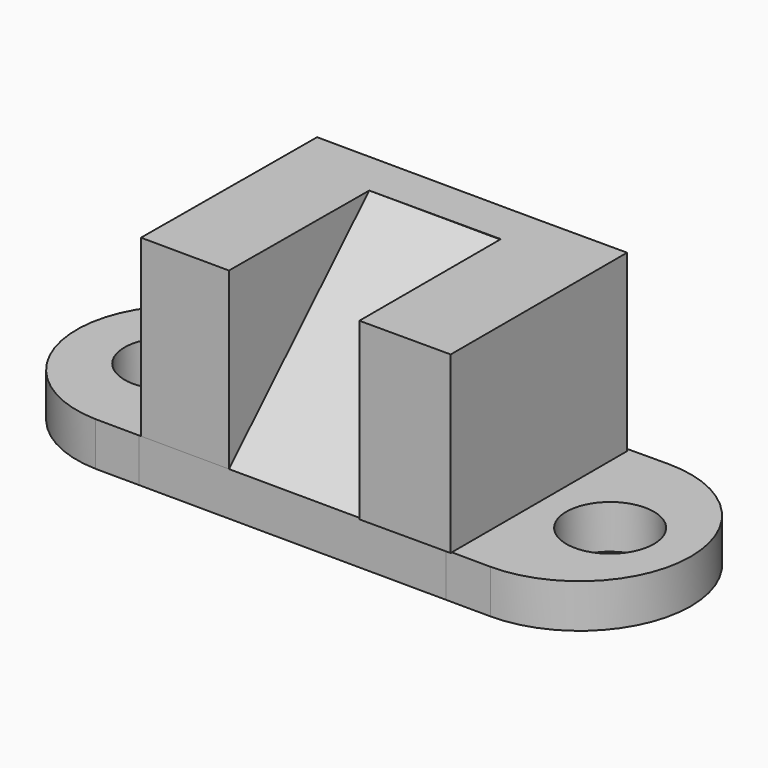
from build123d import *

# Parameters (mm, degrees)
F1_DEPTH  = 12.7
F2_W      = 25.6720799953
F2_H      = 50.7660422802
F3_DEPTH  = 63.5
F5_DEPTH  = 50.7660422802
F6_W      = 26.5199552193
F6_H      = 64.0474567351
F7_DEPTH  = 50.8
F10_R     = 12.7730811137
F11_DEPTH = 63.4670422802
F12_R     = 12.7195807683
F13_DEPTH = 12.701


with BuildPart() as f1:
    # F0 (on Top) → F1 (new body)
    with BuildSketch(Plane.XY):
        with BuildLine():
            ThreePointArc((-25.6409262814, 31.6378357737), (-58.9331206672, 1.2217878444), (-28.0842930079, -31.6697917879))
            Line((-28.0842930079, -31.6697917879), (-15.4401324445, -31.7423005202))
            Line((-15.4401324445, -31.7423005202), (-15.8297911107, 31.6980969637))
            Line((-15.8297911107, 31.6980969637), (-25.6409262814, 31.6378357737))
        make_face()
        with BuildLine():
            Line((87.1467143297, 32.3305912316), (73.7005600104, 32.2480033102))
            Line((73.7005600104, 32.2480033102), (74.0967499711, -32.2557553919))
            Line((74.0967499711, -32.2557553919), (87.1467143297, -32.3305912316))
            ThreePointArc((87.1467143297, -32.3305912316), (119.4773055613, 0), (87.1467143297, 32.3305912316))
        make_face()
        Polygon((-15.8297911107, 31.6980969637), (-15.4401324445, -31.7423005202), (10.3389963129, -31.890132552), (74.0967499711, -32.2557553919), (73.7005600104, 32.2480033102), align=None)
    extrude(amount=F1_DEPTH)

    # F2 (on face) → F3 (join)
    with BuildSketch(Plane(origin=(-0.182529964, -31.8297961992, 0), x_dir=(0.9999835578, -0.0057344685, 0), z_dir=(-0.0057344685, -0.9999835578, 0))):
        with Locations((-1.8538236618, 38.0830211401)):
            Rectangle(F2_W, F2_H)
    extrude(amount=-F3_DEPTH)

    # F4 (on face) → F5 (join, through all)
    with BuildSketch(Plane.XY.offset(63.4660422802)):
        Polygon((49.3144159303, 31.3874045549), (11.1636445481, 31.6061825478), (11.0895372501, 18.6832621694), (49.3144159303, 18.6832621694), align=None)
    extrude(amount=-F5_DEPTH)

    # F6 (on face) → F7 (join)
    with BuildSketch(Plane.XY.offset(63.4660422802)):
        with Locations((62.5743935399, -0.6363238127)):
            Rectangle(F6_W, F6_H)
    extrude(amount=-F7_DEPTH)

    # F8 (on face) → F9 (join, up to the next surface of F1)
    with BuildSketch(Plane(origin=(10.982035764, -0.0629771733, 0), x_dir=(0.0057344685, 0.9999835578, 0), z_dir=(0.9999835578, -0.0057344685, 0))):
        Polygon((18.7465475772, 12.6999999999), (18.7465475772, 63.4660422802), (-31.8303195597, 12.7), align=None)
    extrude(until=Until.NEXT)

    # F10 (on face) → F11 (cut, through all)
    with BuildSketch(Plane.XY.offset(63.4660422802)):
        with Locations((-32.2718322277, 0)):
            Circle(F10_R)
    extrude(amount=-F11_DEPTH, mode=Mode.SUBTRACT)

    # F12 (on face) → F13 (cut, through all)
    with BuildSketch(Plane.XY.offset(12.7)):
        with Locations((96.3716953993, -0.4391576674)):
            Circle(F12_R)
    extrude(amount=-F13_DEPTH, mode=Mode.SUBTRACT)


solid = f1.part
